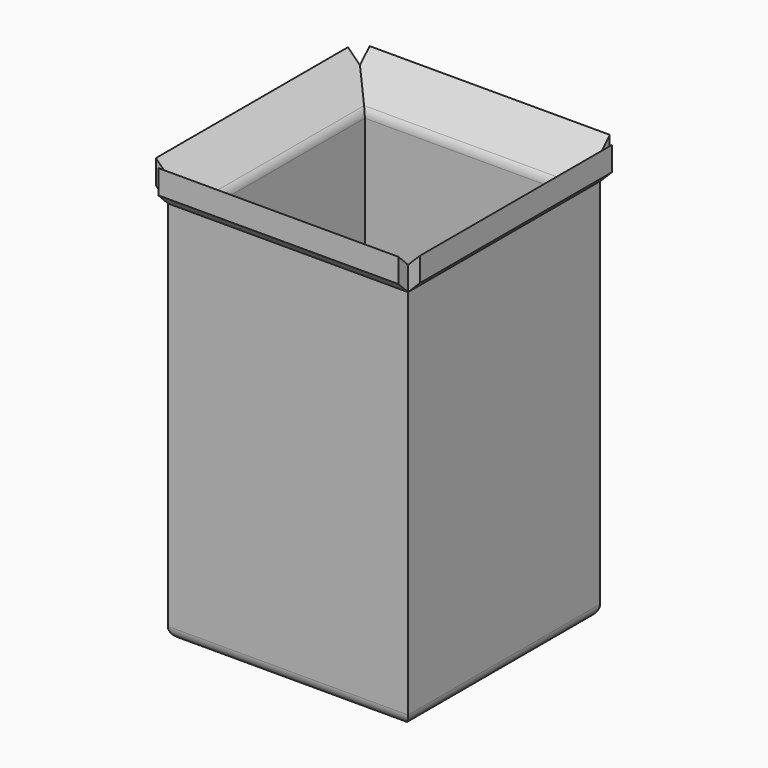
from build123d import *

# Parameters (mm, degrees)
EXTRUDE003_DEPTH = 20
EXTRUDE002_DEPTH = 20
FILLET_R         = 2


with BuildPart() as extrude003:
    # Sketch004 (on Extrude) → Extrude003 (new body, symmetric)
    with BuildSketch(Plane.YZ):
        Polygon((20, 0), (-20, 0), (-20, 64), (-22, 66), (-22, 70), (-16, 64), (-16, 4), (16, 4), (16, 64), (22, 70), (22, 66), (20, 64), align=None)
    extrude(amount=EXTRUDE003_DEPTH, both=True)


with BuildPart() as bin:
    # Sketch003 → Extrude002 (new body, symmetric)
    with BuildSketch(Plane.XZ):
        Polygon((-20, 0), (20, 0), (20, 64), (22, 66), (22, 70), (16, 64), (16, 4), (-16, 4), (-16, 64), (-22, 70), (-22, 66), (-20, 64), align=None)
    extrude(amount=EXTRUDE002_DEPTH, both=True)

    # Fusion001: union Extrude003
    add(extrude003.part)

    # Fillet
    fillet_edges = [bin.edges().sort_by_distance(p)[0] for p in [
        (-20, 0, 0),
        (-16, 0, 64),
        (0, 20, 0),
        (20, 0, 0),
        (0, -20, 0),
        (0, 16, 64),
        (-16, 0, 4),
        (0, -16, 64),
        (0, 16, 4),
        (16, 0, 64),
        (0, -16, 4),
        (16, 0, 4),
    ]]
    fillet(fillet_edges, radius=FILLET_R)


solid = bin.part
